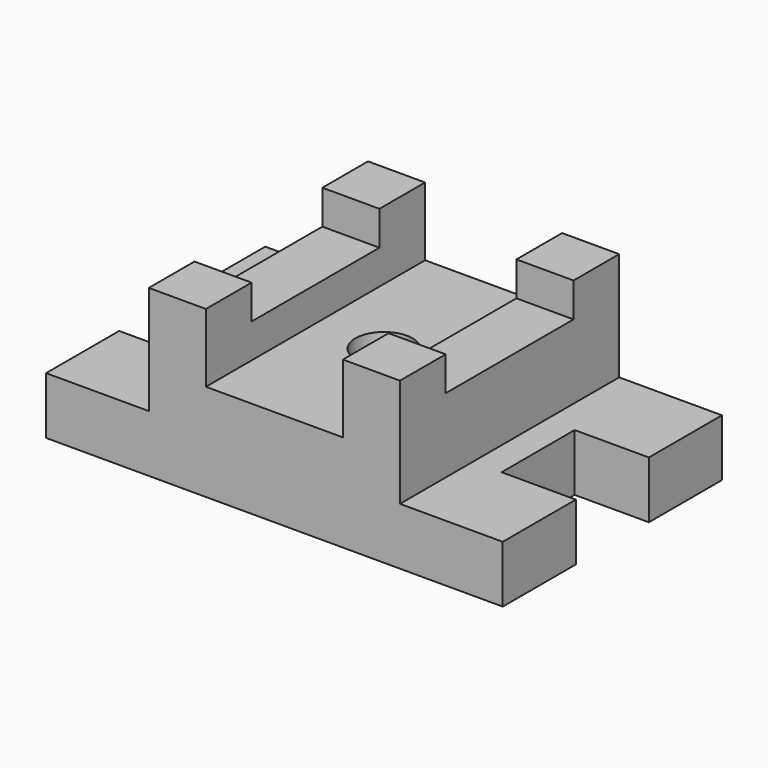
from build123d import *

# Parameters (mm, degrees)
F1_DEPTH = 152.4
F2_W     = 41.275
F2_H     = 50.8
F3_DEPTH = 31.75
F4_W     = 41.275
F4_H     = 50.8
F5_DEPTH = 31.75
F6_W     = 88.9
F6_H     = 19.05
F7_DEPTH = 254
F8_R     = 15.875
F9_DEPTH = 101.6


with BuildPart() as f1:
    # F0 (on Front) → F1 (new body)
    with BuildSketch(Plane.XZ):
        Polygon((0, 31.75), (0, 0), (254, 0), (254, 31.75), (196.85, 31.75), (196.85, 92.075), (165.1, 92.075), (165.1, 53.975), (88.9, 53.975), (88.9, 92.075), (57.15, 92.075), (57.15, 31.75), align=None)
    extrude(amount=F1_DEPTH)

    # F2 (on face) → F3 (cut)
    with BuildSketch(Plane.XY.offset(31.75)):
        with Locations((233.3625, -76.2)):
            Rectangle(F2_W, F2_H)
    extrude(amount=-F3_DEPTH, mode=Mode.SUBTRACT)

    # F4 (on face) → F5 (cut)
    with BuildSketch(Plane.XY.offset(31.75)):
        with Locations((20.6375, -76.2)):
            Rectangle(F4_W, F4_H)
    extrude(amount=-F5_DEPTH, mode=Mode.SUBTRACT)

    # F6 (on face) → F7 (cut)
    with BuildSketch(Plane.YZ.offset(196.85)):
        with Locations((-76.2, 82.55)):
            Rectangle(F6_W, F6_H)
    extrude(amount=-F7_DEPTH, mode=Mode.SUBTRACT)

    # F8 (on face) → F9 (cut)
    with BuildSketch(Plane.XY.offset(53.975)):
        with Locations((127, -76.2)):
            Circle(F8_R)
    extrude(amount=-F9_DEPTH, mode=Mode.SUBTRACT)


solid = f1.part
